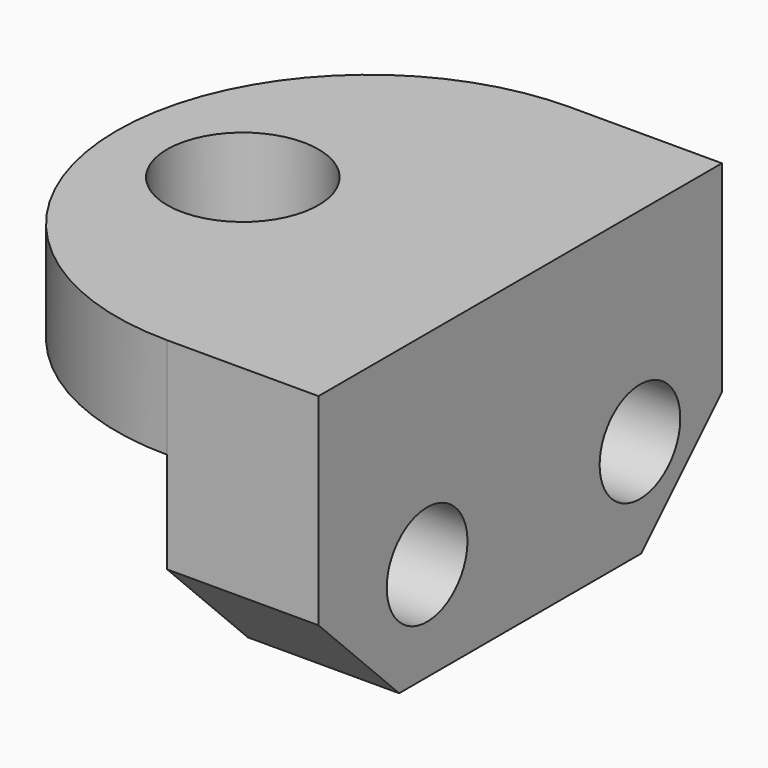
from build123d import *

# Parameters (mm, degrees)
F1_DEPTH = 19.05
F2_SIZE  = 12.7
F3_SIZE  = 12.7
F4_D     = 12.7
F6_DEPTH = 12.7
F8_D     = 19.05


with BuildPart() as f1:
    # F0 (on Right) → F1 (new body)
    with BuildSketch(Plane.YZ):
        Polygon((-31.75, 19.05), (-31.75, -19.05), (31.75, -19.05), (31.75, 19.05), (0, 19.05), align=None)
    extrude(amount=F1_DEPTH)

    # F2
    f2_edges = [f1.edges().sort_by_distance(p)[0] for p in [
        (9.525, -31.75, -19.05),
    ]]
    chamfer(f2_edges, length=F2_SIZE)

    # F3
    f3_edges = [f1.edges().sort_by_distance(p)[0] for p in [
        (9.525, 31.75, -19.05),
    ]]
    chamfer(f3_edges, length=F3_SIZE)

    # F4 (through all)
    with Locations(Plane(origin=(0, 0, 0), x_dir=(0, 1, 0), z_dir=(-1, 0, 0))):
        with Locations((-14.6544640884, 6.5692421049), (18.8520774245, 6.5692421049)):
            Hole(F4_D / 2)

    # F5 (on face) → F6 (join)
    with BuildSketch(Plane.XY.offset(19.05)):
        with BuildLine():
            Line((0, -31.75), (0, 0))
            Line((0, 0), (-31.75, 0))
            ThreePointArc((-31.75, 0), (-22.4506403027, -22.4506403027), (0, -31.75))
        make_face()
        with BuildLine():
            Line((-31.75, 0), (0, 0))
            Line((0, 0), (0, 31.75))
            ThreePointArc((0, 31.75), (-22.4506403027, 22.4506403027), (-31.75, 0))
        make_face()
    extrude(amount=-F6_DEPTH)

    # F8 (through all)
    with Locations(Plane(origin=(0, 0, 0), x_dir=(1, 0, 0), z_dir=(0, 0, -1))):
        with Locations((-15.875, 0)):
            Hole(F8_D / 2)


solid = f1.part
